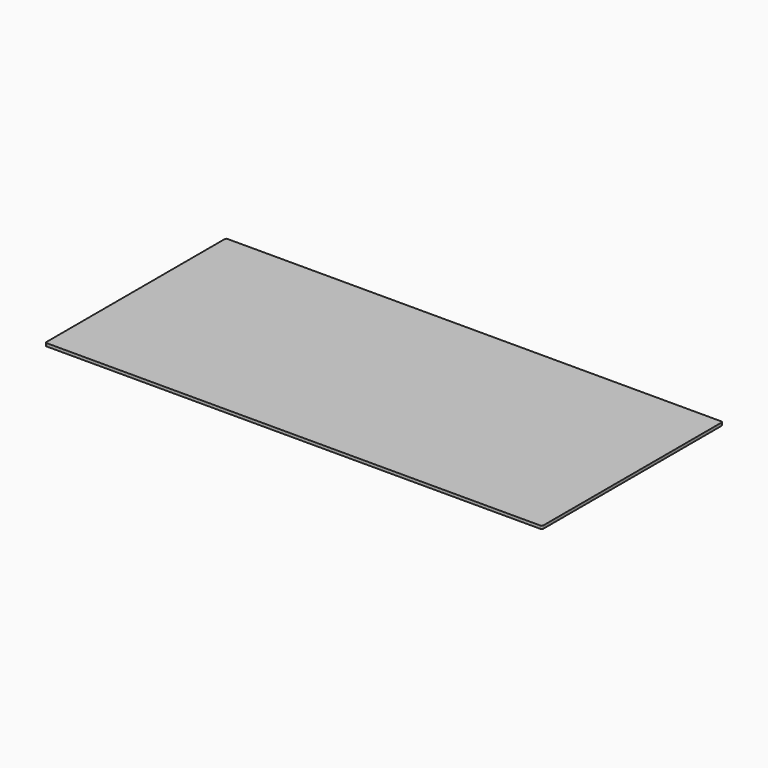
from build123d import *

# Parameters (mm, degrees)
F0_W     = 1676.4
F0_H     = 762
F1_DEPTH = 24
F5_R     = 5


with BuildPart() as f1:
    # F0 (on Top) → F1 (new body)
    with BuildSketch(Plane.XY):
        Rectangle(F0_W, F0_H)
    extrude(amount=F1_DEPTH)

    # F4: sweep along a path in F3
    with BuildLine(Plane(origin=(0, 0, 0), x_dir=(1, 0, 0), z_dir=(0, 0, -1))) as f4_path:
        Line((838.2, 381), (-838.2, 381))
        Line((-838.2, 381), (-838.2, -381))
        Line((-838.2, -381), (838.2, -381))
        Line((838.2, -381), (838.2, 381))
    # F2 (on face) → F4 (sweep, cut)
    with BuildSketch(Plane.YZ.offset(838.2)):
        Polygon((381, 14), (331, 0), (381, 0), align=None)
    sweep(path=f4_path.line, transition=Transition.RIGHT, mode=Mode.SUBTRACT)

    # F5
    f5_edges = [f1.edges().sort_by_distance(p)[0] for p in [
        (838.2, 381, 19),
        (838.2, -381, 19),
        (-838.2, 381, 19),
        (-838.2, -381, 19),
    ]]
    fillet(f5_edges, radius=F5_R)


solid = f1.part
